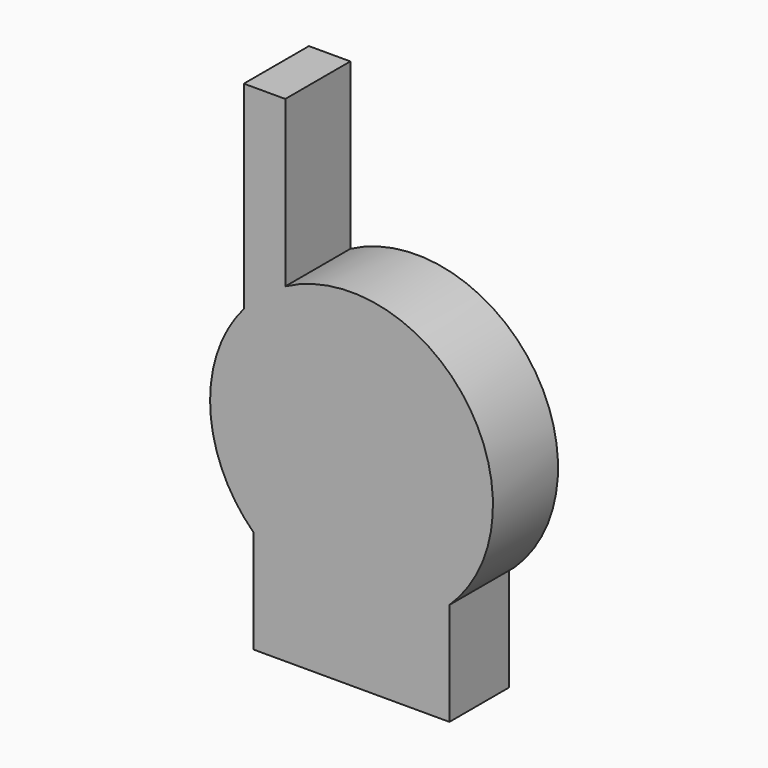
from build123d import *

# Parameters (mm, degrees)
F1_DEPTH = 23
F2_W     = 55.3733881378
F2_H     = 29.1305183362
F3_DEPTH = 2


with BuildPart() as f1:
    # F0 (on Front) → F1 (new body)
    with BuildSketch(Plane.XZ):
        with BuildLine():
            Line((58.6916125421, -112.6401221338), (58.6916125421, -83.5096037976))
            ThreePointArc((58.6916125421, -83.5096037976), (63.4212285001, -31.2054716299), (12.2713760607, -19.2981585681))
            Line((12.2713760607, -19.2981585681), (12.2713760607, 27.3598778662))
            Line((12.2713760607, 27.3598778662), (0.550356732, 27.3598778662))
            Line((0.550356732, 27.3598778662), (0.550356732, -28.7071379409))
            ThreePointArc((0.550356732, -28.7071379409), (-8.9441612758, -56.657800803), (3.3182244043, -83.5096037976))
            Line((3.3182244043, -83.5096037976), (3.3182244043, -112.6401221338))
            Line((3.3182244043, -112.6401221338), (58.6916125421, -112.6401221338))
        make_face()
    extrude(amount=F1_DEPTH)

    # F2 (on face) → F3 (cut)
    with BuildSketch(Plane(origin=(0, 0, 0), x_dir=(-1, 0, 0), z_dir=(0, 1, 0))):
        with Locations((-31.0049184732, -98.0748629657)):
            Rectangle(F2_W, F2_H)
    extrude(amount=-F3_DEPTH, mode=Mode.SUBTRACT)


solid = f1.part
